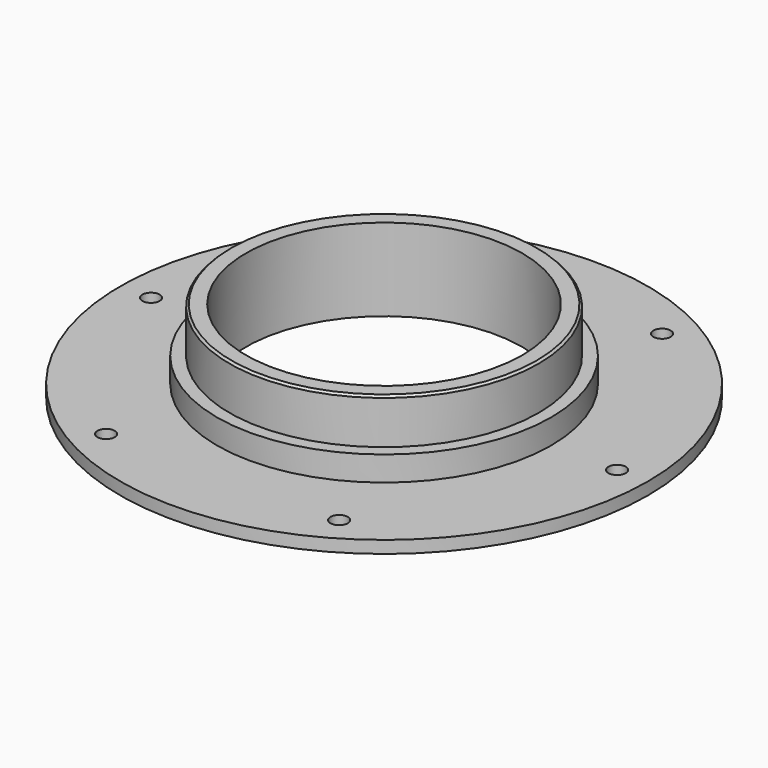
from build123d import *

# Parameters (mm, degrees)
SKETCH_R      = 64
SKETCH_R_2    = 2.1
SKETCH_R_3    = 33.5
PAD_DEPTH     = 3
SKETCH001_R   = 37.5
SKETCH001_R_2 = 33.5
PAD001_DEPTH  = 17
SKETCH002_R   = 40.5
SKETCH002_R_2 = 37.5
PAD002_DEPTH  = 6
CHAMFER_SIZE  = 0.5


with BuildPart() as part:
    # Sketch → Pad (new body)
    with BuildSketch(Plane.XY):
        Circle(SKETCH_R)
        with Locations((-28.25, 48.930435)):
            Circle(SKETCH_R_2, mode=Mode.SUBTRACT)
        with Locations((28.25, 48.930435)):
            Circle(SKETCH_R_2, mode=Mode.SUBTRACT)
        with Locations((56.5, 0)):
            Circle(SKETCH_R_2, mode=Mode.SUBTRACT)
        with Locations((28.25, -48.930435)):
            Circle(SKETCH_R_2, mode=Mode.SUBTRACT)
        with Locations((-28.25, -48.930435)):
            Circle(SKETCH_R_2, mode=Mode.SUBTRACT)
        with Locations((-56.5, 0)):
            Circle(SKETCH_R_2, mode=Mode.SUBTRACT)
        Circle(SKETCH_R_3, mode=Mode.SUBTRACT)
    extrude(amount=PAD_DEPTH)

    # Sketch001 (on Face10 of Pad) → Pad001 (join)
    with BuildSketch(Plane.XY.offset(3)):
        Circle(SKETCH001_R)
        Circle(SKETCH001_R_2, mode=Mode.SUBTRACT)
    extrude(amount=PAD001_DEPTH)

    # Sketch002 (on Face3 of Pad001) → Pad002 (join)
    with BuildSketch(Plane.XY.offset(3)):
        Circle(SKETCH002_R)
        Circle(SKETCH002_R_2, mode=Mode.SUBTRACT)
    extrude(amount=PAD002_DEPTH)

    # Chamfer
    chamfer_edges = [part.edges().sort_by_distance(p)[0] for p in [
        (-37.5, 0, 20),
    ]]
    chamfer(chamfer_edges, length=CHAMFER_SIZE)


solid = part.part
